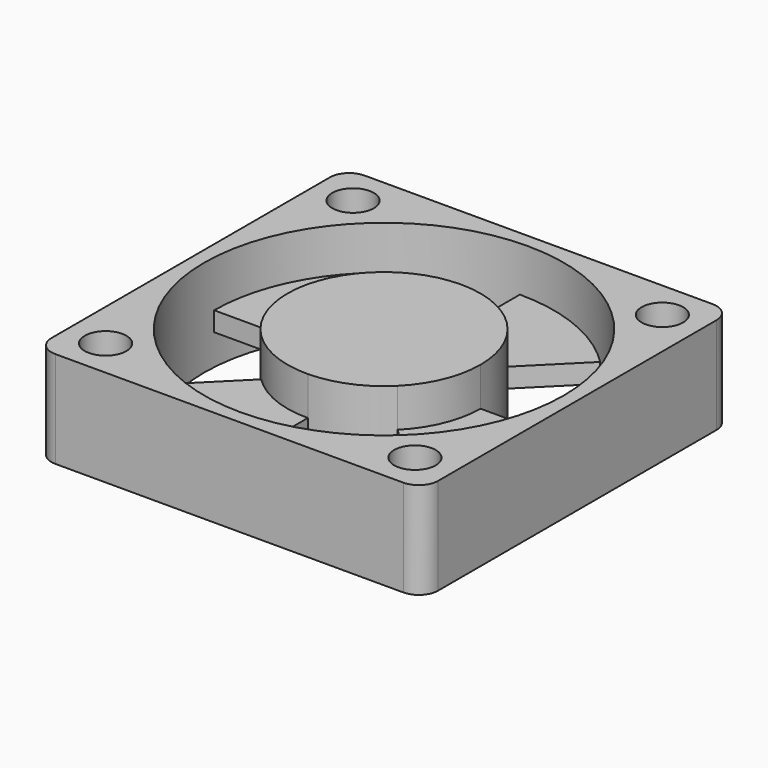
from build123d import *

# Parameters (mm, degrees)
F0_W      = 40
F0_H      = 40
F1_DEPTH  = 10
F2_R      = 18.6004987273
F3_DEPTH  = 25
F5_DEPTH  = 10
F6_R      = 2.15
F7_DEPTH  = 25
F8_R      = 2
F10_DEPTH = 4
F12_DEPTH = 4


with BuildPart() as f1:
    # F0 (on Top) → F1 (new body)
    with BuildSketch(Plane.XY):
        with Locations((20, -20)):
            Rectangle(F0_W, F0_H)
    extrude(amount=F1_DEPTH)

    # F2 (on face) → F3 (cut)
    with BuildSketch(Plane.XY.offset(10)):
        with Locations((20, -20)):
            Circle(F2_R)
    extrude(amount=-F3_DEPTH, mode=Mode.SUBTRACT)

    # F6 (on face) → F7 (cut)
    with BuildSketch(Plane.XY.offset(10)):
        with Locations((4, -4)):
            Circle(F6_R)
        with Locations((4, -36)):
            Circle(F6_R)
        with Locations((36, -4)):
            Circle(F6_R)
        with Locations((36, -36)):
            Circle(F6_R)
    extrude(amount=-F7_DEPTH, mode=Mode.SUBTRACT)

    # F8
    f8_edges = [f1.edges().sort_by_distance(p)[0] for p in [
        (0, 0, 5),
        (40, 0, 5),
        (40, -40, 5),
        (0, -40, 5),
    ]]
    fillet(f8_edges, radius=F8_R)


with BuildPart() as f5:
    # F4 (on Top) → F5 (new body, through all)
    with BuildSketch(Plane.XY):
        with BuildLine():
            ThreePointArc((27.0590603092, -27.0590603092), (29.2231067668, -23.82033591), (29.9830188268, -20))
            ThreePointArc((29.9830188268, -20), (29.2231067668, -16.17966409), (27.0590603092, -12.9409396908))
            Line((27.0590603092, -12.9409396908), (20, -20))
            Line((20, -20), (27.0590603092, -27.0590603092))
        make_face()
        with BuildLine():
            Line((37.5710188268, -20), (29.9830188268, -20))
            ThreePointArc((29.9830188268, -20), (29.2231067668, -23.82033591), (27.0590603092, -27.0590603092))
            Line((27.0590603092, -27.0590603092), (32.4245865648, -32.4245865648))
            ThreePointArc((32.4245865648, -32.4245865648), (36.2335046595, -26.7241377948), (37.5710188268, -20))
        make_face()
        with BuildLine():
            Line((20, -20), (27.0590603092, -12.9409396908))
            ThreePointArc((27.0590603092, -12.9409396908), (23.82033591, -10.7768932332), (20, -10.0169811732))
            ThreePointArc((20, -10.0169811732), (16.17966409, -10.7768932332), (12.9409396908, -12.9409396908))
            Line((12.9409396908, -12.9409396908), (20, -20))
        make_face()
        with BuildLine():
            ThreePointArc((20, -10.0169811732), (23.82033591, -10.7768932332), (27.0590603092, -12.9409396908))
            Line((27.0590603092, -12.9409396908), (32.4245865648, -7.5754134352))
            ThreePointArc((32.4245865648, -7.5754134352), (26.7241377948, -3.7664953405), (20, -2.4289811732))
            Line((20, -2.4289811732), (20, -10.0169811732))
        make_face()
        with BuildLine():
            ThreePointArc((20.1078887367, -29.9824358208), (23.8701189584, -29.2023281915), (27.0590603092, -27.0590603092))
            Line((27.0590603092, -27.0590603092), (20, -20))
            Line((20, -20), (12.9409396908, -27.0590603092))
            ThreePointArc((12.9409396908, -27.0590603092), (16.2295586925, -29.2436160264), (20.1078887367, -29.9824358208))
        make_face()
        with BuildLine():
            Line((12.9409396908, -27.0590603092), (20, -20))
            Line((20, -20), (12.9409396908, -12.9409396908))
            ThreePointArc((12.9409396908, -12.9409396908), (10.7768932332, -16.17966409), (10.0169811732, -20))
            ThreePointArc((10.0169811732, -20), (10.7768932332, -23.82033591), (12.9409396908, -27.0590603092))
        make_face()
        with BuildLine():
            Line((20.1078887367, -37.5706875971), (20.1078887367, -29.9824358208))
            ThreePointArc((20.1078887367, -29.9824358208), (16.2295586925, -29.2436160264), (12.9409396908, -27.0590603092))
            Line((12.9409396908, -27.0590603092), (7.5754134352, -32.4245865648))
            ThreePointArc((7.5754134352, -32.4245865648), (13.325732227, -36.2540718685), (20.1078887367, -37.5706875971))
        make_face()
        with BuildLine():
            ThreePointArc((10.0169811732, -20), (10.7768932332, -16.17966409), (12.9409396908, -12.9409396908))
            Line((12.9409396908, -12.9409396908), (7.5754134352, -7.5754134352))
            ThreePointArc((7.5754134352, -7.5754134352), (3.7664953405, -13.2758622052), (2.4289811732, -20))
            Line((2.4289811732, -20), (10.0169811732, -20))
        make_face()
    extrude(amount=F5_DEPTH)

    # F9 (on face) → F10 (cut)
    with BuildSketch(Plane.XY.offset(10)):
        with BuildLine():
            Line((37.5710188268, -20), (29.9830188268, -20))
            ThreePointArc((29.9830188268, -20), (29.2231067668, -23.82033591), (27.0590603092, -27.0590603092))
            Line((27.0590603092, -27.0590603092), (32.4245865648, -32.4245865648))
            ThreePointArc((32.4245865648, -32.4245865648), (36.2335046595, -26.7241377948), (37.5710188268, -20))
        make_face()
        with BuildLine():
            ThreePointArc((20.1078887367, -29.9824358208), (16.2295586925, -29.2436160264), (12.9409396908, -27.0590603092))
            Line((12.9409396908, -27.0590603092), (7.5754134352, -32.4245865648))
            ThreePointArc((7.5754134352, -32.4245865648), (13.325732227, -36.2540718685), (20.1078887367, -37.5706875971))
            Line((20.1078887367, -37.5706875971), (20.1078887367, -29.9824358208))
        make_face()
        with BuildLine():
            ThreePointArc((10.0169811732, -20), (10.7768932332, -16.17966409), (12.9409396908, -12.9409396908))
            Line((12.9409396908, -12.9409396908), (7.5754134352, -7.5754134352))
            ThreePointArc((7.5754134352, -7.5754134352), (3.7664953405, -13.2758622052), (2.4289811732, -20))
            Line((2.4289811732, -20), (10.0169811732, -20))
        make_face()
        with BuildLine():
            ThreePointArc((32.4245865648, -7.5754134352), (26.7241377948, -3.7664953405), (20, -2.4289811732))
            Line((20, -2.4289811732), (20, -10.0169811732))
            ThreePointArc((20, -10.0169811732), (23.82033591, -10.7768932332), (27.0590603092, -12.9409396908))
            Line((27.0590603092, -12.9409396908), (32.4245865648, -7.5754134352))
        make_face()
    extrude(amount=-F10_DEPTH, mode=Mode.SUBTRACT)

    # F11 (on face) → F12 (cut)
    with BuildSketch(Plane(origin=(0, 0, 0), x_dir=(1, 0, 0), z_dir=(0, 0, -1))):
        with BuildLine():
            Line((7.5754134352, 7.5754134352), (12.9409396908, 12.9409396908))
            ThreePointArc((12.9409396908, 12.9409396908), (10.7768932332, 16.17966409), (10.0169811732, 20))
            Line((10.0169811732, 20), (2.4289811732, 20))
            ThreePointArc((2.4289811732, 20), (3.7664953405, 13.2758622052), (7.5754134352, 7.5754134352))
        make_face()
        with BuildLine():
            Line((7.5754134352, 32.4245865648), (12.9409396908, 27.0590603092))
            ThreePointArc((12.9409396908, 27.0590603092), (16.2295586925, 29.2436160264), (20.1078887367, 29.9824358208))
            Line((20.1078887367, 29.9824358208), (20.1078887367, 37.5706875971))
            ThreePointArc((20.1078887367, 37.5706875971), (13.325732227, 36.2540718685), (7.5754134352, 32.4245865648))
        make_face()
        with BuildLine():
            ThreePointArc((27.0590603092, 27.0590603092), (29.2231067668, 23.82033591), (29.9830188268, 20))
            Line((29.9830188268, 20), (37.5710188268, 20))
            ThreePointArc((37.5710188268, 20), (36.2335046595, 26.7241377948), (32.4245865648, 32.4245865648))
            Line((32.4245865648, 32.4245865648), (27.0590603092, 27.0590603092))
        make_face()
        with BuildLine():
            ThreePointArc((27.0590603092, 12.9409396908), (23.82033591, 10.7768932332), (20, 10.0169811732))
            Line((20, 10.0169811732), (20, 2.4289811732))
            ThreePointArc((20, 2.4289811732), (26.7241377948, 3.7664953405), (32.4245865648, 7.5754134352))
            Line((32.4245865648, 7.5754134352), (27.0590603092, 12.9409396908))
        make_face()
    extrude(amount=-F12_DEPTH, mode=Mode.SUBTRACT)


solid = Compound([f1.part, f5.part])
